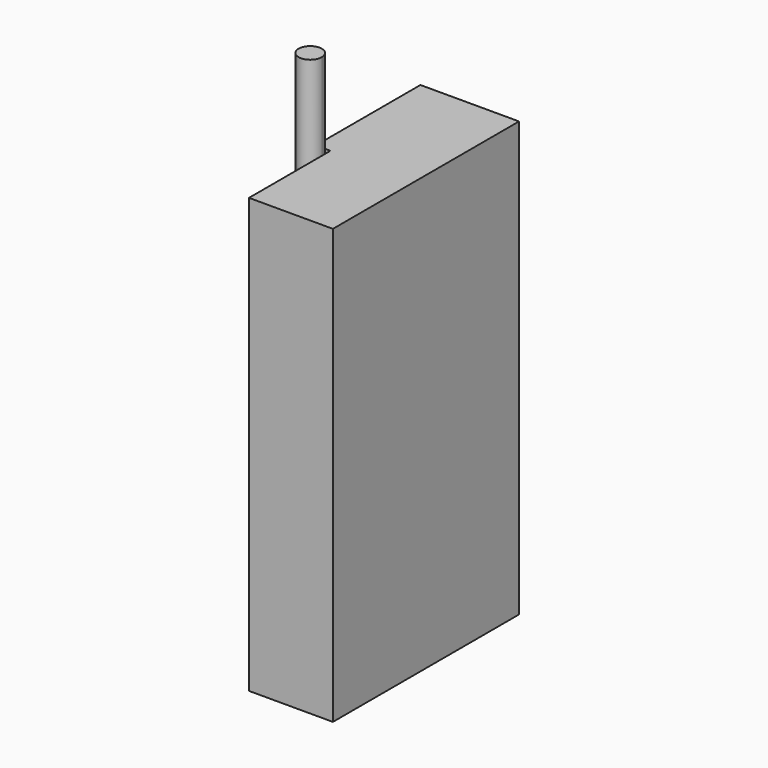
from build123d import *

# Parameters (mm, degrees)
F1_DEPTH      = 75
F2_DEPTH      = 45
F2_DEPTH_BACK = 15


with BuildPart() as f1:
    # F0 (on Top) → F1 (new body)
    with BuildSketch(Plane.XY):
        Polygon((-14.5, 0), (0, 0), (0, 40.2), (-17.036, 40.2), (-17.036, 17.78), (-16.3256885076, 17.7178557968), (-14.5, 17.5581287493), (-14.5, 15.7254664013), align=None)
    extrude(amount=-F1_DEPTH)

    # F0 (on Top) → F2 (join, two sides)
    with BuildSketch(Plane.XY) as f2_sk:
        with BuildLine():
            ThreePointArc((-16.3256885076, 17.7178557968), (-17.974554676, 14.3742859886), (-14.5, 15.7254664013))
            ThreePointArc((-14.5, 15.7254664013), (-15.025445324, 17.0766468139), (-16.3256885076, 17.7178557968))
        make_face()
    extrude(amount=-F2_DEPTH)
    extrude(f2_sk.sketch, amount=F2_DEPTH_BACK)


solid = f1.part
